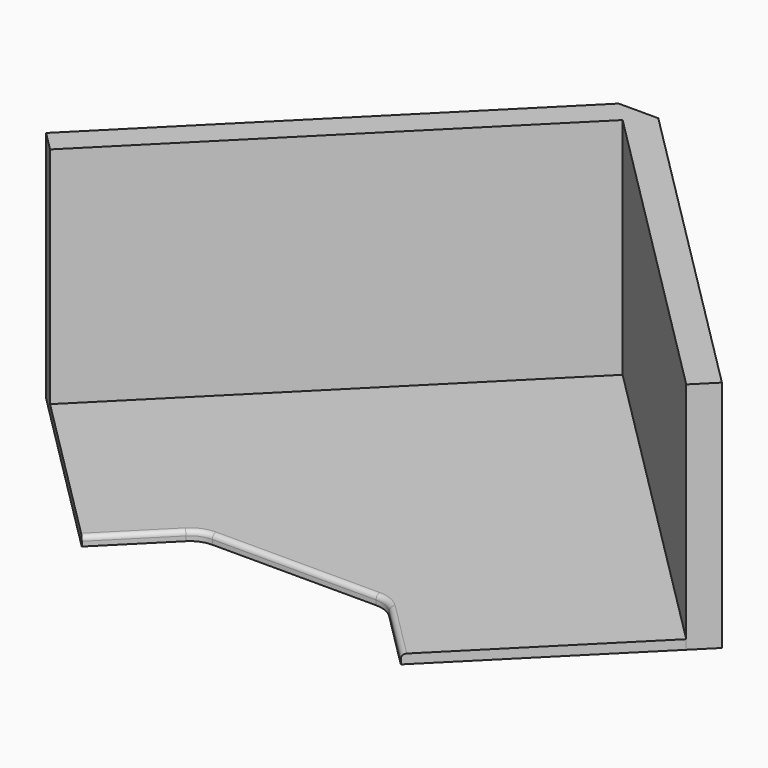
from build123d import *

# Parameters (mm, degrees)
F1_DEPTH      = 25.4
F2_DEPTH      = 609.6
F2_DEPTH_BACK = 25.4
F3_DEPTH      = 609.6
F3_DEPTH_BACK = 25.4
F4_DEPTH      = 609.6
F4_DEPTH_BACK = 25.4
F5_R          = 76.2
F6_R          = 12.7


with BuildPart() as f1:
    # F0 (on Top) → F1 (new body)
    with BuildSketch(Plane.XY):
        Polygon((433.6051224214, -1295.709710044), (864.6574162327, -864.6574162327), (0, 0), (-864.6574162327, -864.6574162327), (-433.6051224214, -1295.709710044), (-254, -1116.1045876226), (254, -1116.1045876226), align=None)
    extrude(amount=-F1_DEPTH)

    # F5
    f5_edges = [f1.edges().sort_by_distance(p)[0] for p in [
        (-254, -1116.104588, -12.7),
        (254, -1116.104588, -12.7),
    ]]
    fillet(f5_edges, radius=F5_R)

    # F6
    f6_edges = [f1.edges().sort_by_distance(p)[0] for p in [
        (354.961793, -1217.06638, 0),
    ]]
    fillet(f6_edges, radius=F6_R)


with BuildPart() as f2:
    # F0 (on Top) → F2 (new body, two sides)
    with BuildSketch(Plane.XY) as f2_sk:
        Polygon((-53.8815367264, 53.8815367264), (0, 0), (53.8815367264, 53.8815367264), align=None)
    extrude(amount=F2_DEPTH)
    extrude(f2_sk.sketch, amount=-F2_DEPTH_BACK)

    # F0 (on Top) → F3 (join, two sides)
    with BuildSketch(Plane.XY) as f3_sk:
        Polygon((0, 0), (864.6574162327, -864.6574162327), (918.5389529591, -810.7758795063), (53.8815367264, 53.8815367264), align=None)
    extrude(amount=F3_DEPTH)
    extrude(f3_sk.sketch, amount=-F3_DEPTH_BACK)

    # F0 (on Top) → F4 (join, two sides)
    with BuildSketch(Plane.XY) as f4_sk:
        Polygon((-864.6574162327, -864.6574162327), (0, 0), (-53.8815367264, 53.8815367264), (-918.5389529591, -810.7758795063), align=None)
    extrude(amount=F4_DEPTH)
    extrude(f4_sk.sketch, amount=-F4_DEPTH_BACK)


solid = Compound([f1.part, f2.part])
